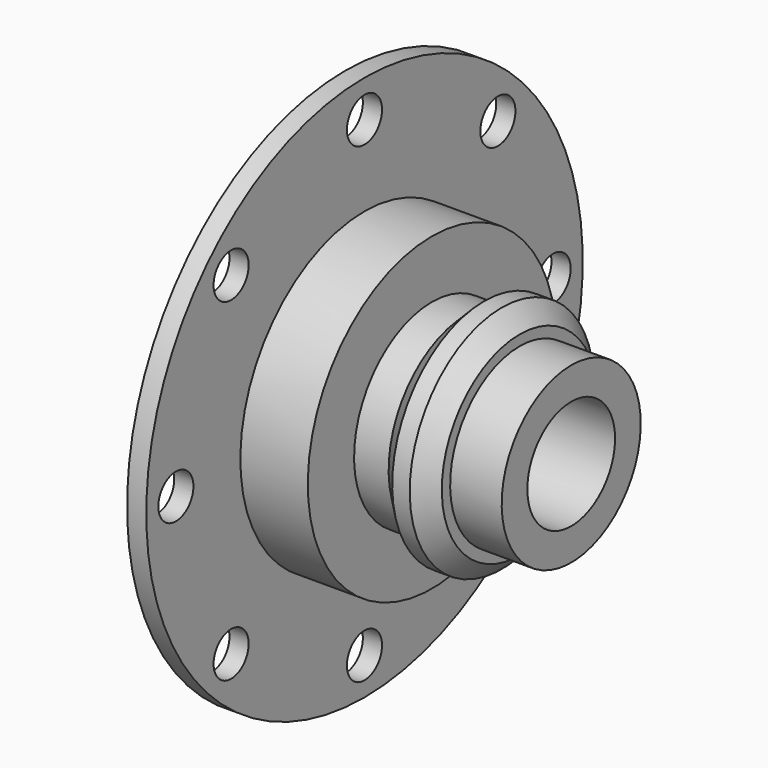
from build123d import *

# Parameters (mm, degrees)
F2_R     = 4
F3_DEPTH = 3.501


with BuildPart() as f1:
    # F0 (on Front) → F1 (revolve)
    with BuildSketch(Plane.XZ):
        Polygon((-37.7, 28.3), (-37.7, 49.75), (-41.2, 49.75), (-41.2, 22.25), (-31.7, 22.25), (-31.7, 10), (0, 10), (0, 15.85), (-9.4, 15.85), (-9.4, 17.75), (-12.65, 21), (-15.85, 21), (-19.1, 17.75), (-25.4, 17.75), (-25.4, 28.3), align=None)
    revolve(axis=Axis((-20.6, 0, 0), (-1, 0, 0)))

    # F2 (on face) → F3 (cut, through all)
    with BuildSketch(Plane.YZ.offset(-37.7)):
        with Locations((0, 43)):
            Circle(F2_R)
        with Locations((-30.405592, 30.405592)):
            Circle(F2_R)
        with Locations((-43, 0)):
            Circle(F2_R)
        with Locations((-30.405592, -30.405592)):
            Circle(F2_R)
        with Locations((0, -43)):
            Circle(F2_R)
        with Locations((30.405592, -30.405592)):
            Circle(F2_R)
        with Locations((43, 0)):
            Circle(F2_R)
        with Locations((30.405592, 30.405592)):
            Circle(F2_R)
    extrude(amount=-F3_DEPTH, mode=Mode.SUBTRACT)


solid = f1.part
